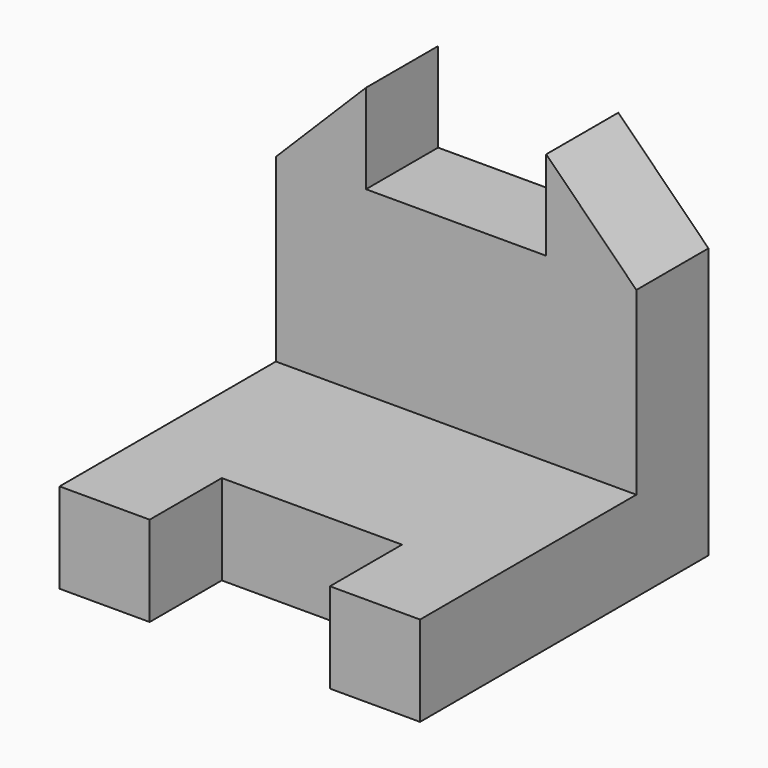
from build123d import *

# Parameters (mm, degrees)
F0_W      = 101.6
F0_H      = 101.6
F1_DEPTH  = 101.6
F2_W      = 50.8
F2_H      = 25.4
F3_DEPTH  = 25.4
F4_W      = 101.6
F4_H      = 76.2
F5_DEPTH  = 76.2
F7_DEPTH  = 25.4
F8_W      = 50.8
F8_H      = 50.8
F9_DEPTH  = 25.4
F9_FACE_W = 50.8
F9_FACE_H = 25.4
F10_DEPTH = 50.8
F11_W     = 50.8
F11_H     = 25.188574
F12_DEPTH = 59.436


with BuildPart() as f1:
    # F0 (on Front) → F1 (new body)
    with BuildSketch(Plane.XZ):
        with Locations((-5.817418, 8.951449)):
            Rectangle(F0_W, F0_H)
    extrude(amount=F1_DEPTH)

    # F2 (on face) → F3 (cut)
    with BuildSketch(Plane.XZ.offset(101.6)):
        with Locations((-5.817418, -29.148551)):
            Rectangle(F2_W, F2_H)
    extrude(amount=-F3_DEPTH, mode=Mode.SUBTRACT)

    # F4 (on face) → F5 (cut)
    with BuildSketch(Plane.XZ.offset(101.6)):
        with Locations((-5.817418, 21.651449)):
            Rectangle(F4_W, F4_H)
    extrude(amount=-F5_DEPTH, mode=Mode.SUBTRACT)

    # F6 (on face) → F7 (cut)
    with BuildSketch(Plane.XZ.offset(25.4)):
        Polygon((44.982582, 59.751449), (19.582582, 59.751449), (44.982582, 34.351449), align=None)
        Polygon((-31.217418, 59.751449), (-56.617418, 59.751449), (-56.617418, 34.351449), align=None)
    extrude(amount=-F7_DEPTH, mode=Mode.SUBTRACT)

    # F8 (on face) → F9 (cut)
    with BuildSketch(Plane.XZ.offset(25.4)):
        with Locations((-5.817418, 34.351449)):
            Rectangle(F8_W, F8_H)
    extrude(amount=-F9_DEPTH, mode=Mode.SUBTRACT)

    # F9_face (on face) → F10 (join)
    with BuildSketch(Plane(origin=(-5.817418, -12.7, 8.951449), x_dir=(1, 0, 0), z_dir=(0, 0, 1))):
        Rectangle(F9_FACE_W, F9_FACE_H)
    extrude(amount=F10_DEPTH)

    # F11 (on face) → F12 (cut)
    with BuildSketch(Plane.XZ.offset(25.4)):
        with Locations((-5.817418, 47.157162)):
            Rectangle(F11_W, F11_H)
    extrude(amount=-F12_DEPTH, mode=Mode.SUBTRACT)


solid = f1.part
